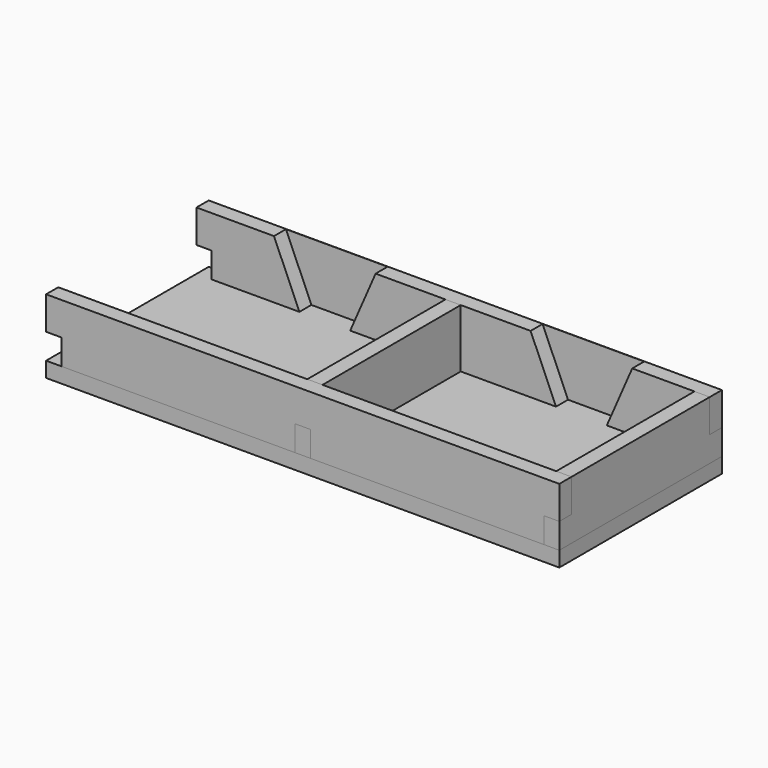
from build123d import *

# Parameters (mm, degrees)
SKETCH_W        = 202
SKETCH_H        = 80
PAD_DEPTH       = 6
SKETCH009_W     = 6
SKETCH009_H     = 6
POCKET005_DEPTH = 6
SKETCH001_W     = 202
SKETCH001_H     = 23
PAD001_DEPTH    = 6
SKETCH002_W     = 6
SKETCH002_H     = 10
POCKET_DEPTH    = 6.001
SKETCH003_W     = 80
SKETCH003_H     = 23
PAD002_DEPTH    = 6
SKETCH004_W     = 6
SKETCH004_H     = 13
POCKET001_DEPTH = 6.001
PAD003_DEPTH    = 6
SKETCH007_W     = 6
SKETCH007_H     = 10
POCKET003_DEPTH = 6.001
POCKET004_DEPTH = 5.9


with BuildPart() as bottom:
    # Sketch → Pad (new body)
    with BuildSketch(Plane.XY):
        with Locations((0, 40)):
            Rectangle(SKETCH_W, SKETCH_H)
    extrude(amount=PAD_DEPTH)

    # Sketch009 (on Face6 of Pad) → Pocket005 (cut)
    with BuildSketch(Plane.XY.offset(6)):
        with Locations((-63.5, 77)):
            Rectangle(SKETCH009_W, SKETCH009_H)
        with Locations((-37.5, 77)):
            Rectangle(SKETCH009_W, SKETCH009_H)
        with Locations((37.5, 77)):
            Rectangle(SKETCH009_W, SKETCH009_H)
        with Locations((63.5, 77)):
            Rectangle(SKETCH009_W, SKETCH009_H)
    extrude(amount=-POCKET005_DEPTH, mode=Mode.SUBTRACT)


with BuildPart() as side_long:
    # Sketch001 → Pad001 (new body)
    with BuildSketch(Plane.XZ):
        with Locations((0, 11.5)):
            Rectangle(SKETCH001_W, SKETCH001_H)
    extrude(amount=PAD001_DEPTH)

    # Sketch002 (on Face6 of Pad001) → Pocket (cut, through all)
    with BuildSketch(Plane.XZ.offset(6)):
        with Locations((-98, 5)):
            Rectangle(SKETCH002_W, SKETCH002_H)
        with Locations((98, 5)):
            Rectangle(SKETCH002_W, SKETCH002_H)
        with Locations((0, 5)):
            Rectangle(SKETCH002_W, SKETCH002_H)
    extrude(amount=-POCKET_DEPTH, mode=Mode.SUBTRACT)


with BuildPart() as side_long_1:
    # Body001 placement: moved
    add(side_long.part.moved(Location((0, 6, 6))))


with BuildPart() as side_small:
    # Sketch003 → Pad002 (new body)
    with BuildSketch(Plane.YZ):
        with Locations((0, 11.5)):
            Rectangle(SKETCH003_W, SKETCH003_H)
    extrude(amount=PAD002_DEPTH)

    # Sketch004 (on Face6 of Pad002) → Pocket001 (cut, through all)
    with BuildSketch(Plane.YZ.offset(6)):
        with Locations((-37, 16.5)):
            Rectangle(SKETCH004_W, SKETCH004_H)
        with Locations((37, 16.5)):
            Rectangle(SKETCH004_W, SKETCH004_H)
    extrude(amount=-POCKET001_DEPTH, mode=Mode.SUBTRACT)


with BuildPart() as side_small_1:
    # Body003 placement: moved
    add(side_small.part.moved(Location((-101, 40, 6))))


with BuildPart() as body004:
    # Body004 base: copy of side  small
    add(side_small_1.part)


with BuildPart() as body004_1:
    # Body004 placement: moved
    add(body004.part.moved(Location((98, 0, 0))))


with BuildPart() as body005:
    # Body005 base: copy of side  small
    add(side_small_1.part)


with BuildPart() as body005_1:
    # Body005 placement: moved
    add(body005.part.moved(Location((196, 0, 0))))


with BuildPart() as side_long_with_cutouts:
    # Sketch006 → Pad003 (new body)
    with BuildSketch(Plane.XZ):
        Polygon((-101, 23), (101, 23), (101, 0), (66.5, 0), (66.5, -6), (60.5, -6), (60.5, 0), (40.5, 0), (40.5, -6), (34.5, -6), (34.5, 0), (-34.5, 0), (-34.5, -6), (-40.5, -6), (-40.5, 0), (-60.5, 0), (-60.5, -6), (-66.5, -6), (-66.5, 0), (-101, 0), align=None)
    extrude(amount=PAD003_DEPTH)

    # Sketch007 (on Face22 of Pad003) → Pocket003 (cut, through all)
    with BuildSketch(Plane.XZ.offset(6)):
        with Locations((-98, 5)):
            Rectangle(SKETCH007_W, SKETCH007_H)
        with Locations((98, 5)):
            Rectangle(SKETCH007_W, SKETCH007_H)
        with Locations((0, 5)):
            Rectangle(SKETCH007_W, SKETCH007_H)
    extrude(amount=-POCKET003_DEPTH, mode=Mode.SUBTRACT)

    # Sketch008 (on Face5 of Pocket003) → Pocket004 (cut)
    with BuildSketch(Plane.XZ.offset(6)):
        Polygon((-70.5, 23), (-30.5, 23), (-40.5, 0), (-60.5, 0), align=None)
        Polygon((30.5, 23), (70.5, 23), (60.5, 0), (40.5, 0), align=None)
    extrude(amount=-POCKET004_DEPTH, mode=Mode.SUBTRACT)


with BuildPart() as side_long_with_cutouts_1:
    # Body006 placement: moved
    add(side_long_with_cutouts.part.moved(Location((0, 80, 6))))


solid = Compound([bottom.part, side_long_1.part, body004_1.part, body005_1.part, side_long_with_cutouts_1.part])
